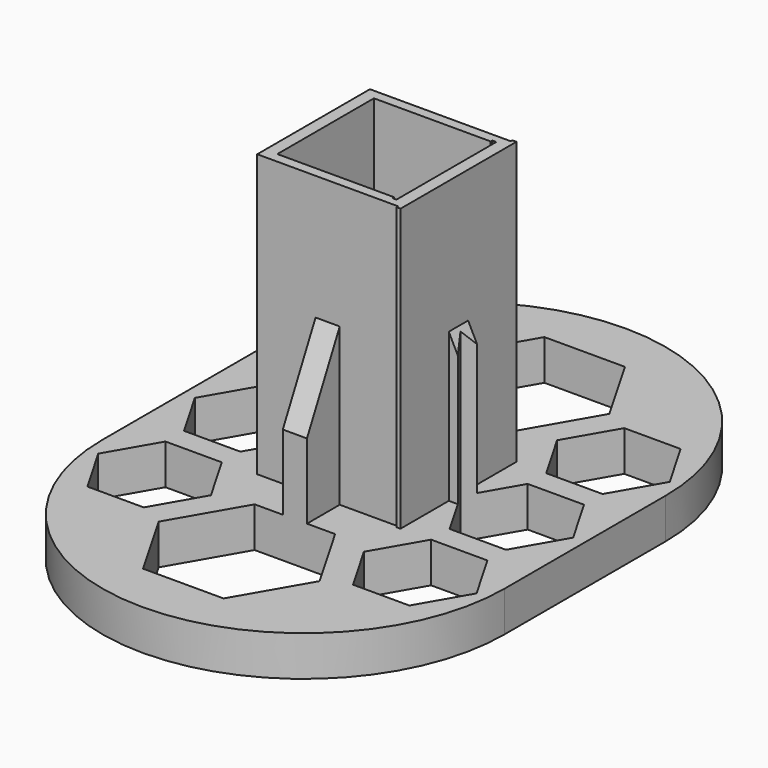
from build123d import *

# Parameters (mm, degrees)
PAD_DEPTH          = 10
PAD001_DEPTH       = 70
PAD002_DEPTH       = 3
PAD002_DEPTH_BACK  = 3
POLARPATTERN_COUNT = 4
POCKET_DEPTH       = 70.001
POCKET_DEPTH_BACK  = 10.001


with BuildPart() as part:
    # Sketch → Pad (new body)
    with BuildSketch(Plane.XY):
        with BuildLine():
            ThreePointArc((50, 25), (0, 75), (-50, 25))
            Line((-50, 25), (-50, -25))
            ThreePointArc((-50, -25), (0, -75), (50, -25))
            Line((50, 25), (50, -25))
        make_face()
    extrude(amount=PAD_DEPTH)

    # Sketch001 (on Face6 of Pad) → Pad001 (join)
    with BuildSketch(Plane.XY.offset(10)):
        Polygon((-17.5, 17.5), (17.5, 17.5), (17.5, 18), (18.5, 18), (18.5, -18), (17.5, -18), (17.5, -17.5), (-17.5, -17.5), align=None)
        Polygon((-14.5, 15), (-14.5, -15), (14.5, -15), (14.5, -15.5), (15.5, -15.5), (15.5, 15.5), (14.5, 15.5), (14.5, 15), align=None, mode=Mode.SUBTRACT)
    extrude(amount=PAD001_DEPTH)

    # Sketch002 → Pad002 (join, two sides)
    with BuildSketch(Plane.YZ) as pad002_sk:
        Polygon((17, 50), (37, 10), (17, 10), align=None)
    pad002 = extrude(amount=PAD002_DEPTH) + extrude(pad002_sk.sketch, amount=-PAD002_DEPTH_BACK)

    # PolarPattern: Pad002 ×4 about axis
    polarpattern_axis = Axis((0, 0, 0), (0, 0, 1))
    for i in range(1, POLARPATTERN_COUNT):
        add(pad002.rotate(polarpattern_axis, i * 360 / POLARPATTERN_COUNT))

    # Sketch003 (on Face5 of Pad001) → Pocket (cut, two sides)
    with BuildSketch(Plane.XY.offset(10)) as pocket_sk:
        Polygon((20, 45), (10, 62.320508), (-10, 62.320508), (-20, 45), (-10, 27.679492), (10, 27.679492), align=None)
        Polygon((-26, 17.875644), (-19, 30), (-26, 42.124356), (-40, 42.124356), (-47, 30), (-40, 17.875644), align=None)
        Polygon((40, 17.875644), (47, 30), (40, 42.124356), (26, 42.124356), (19, 30), (26, 17.875644), align=None)
        Polygon((-19, 0), (-26, 12.124356), (-40, 12.124356), (-47, 0), (-40, -12.124356), (-26, -12.124356), align=None)
        Polygon((20, -45), (10, -27.679492), (-10, -27.679492), (-20, -45), (-10, -62.320508), (10, -62.320508), align=None)
        Polygon((40, -12.124356), (47, 0), (40, 12.124356), (26, 12.124356), (19, 0), (26, -12.124356), align=None)
        Polygon((40, -42.124356), (47, -30), (40, -17.875644), (26, -17.875644), (19, -30), (26, -42.124356), align=None)
        Polygon((-19, -30), (-26, -17.875644), (-40, -17.875644), (-47, -30), (-40, -42.124356), (-26, -42.124356), align=None)
    extrude(amount=POCKET_DEPTH, mode=Mode.SUBTRACT)
    extrude(pocket_sk.sketch, amount=-POCKET_DEPTH_BACK, mode=Mode.SUBTRACT)


solid = part.part
